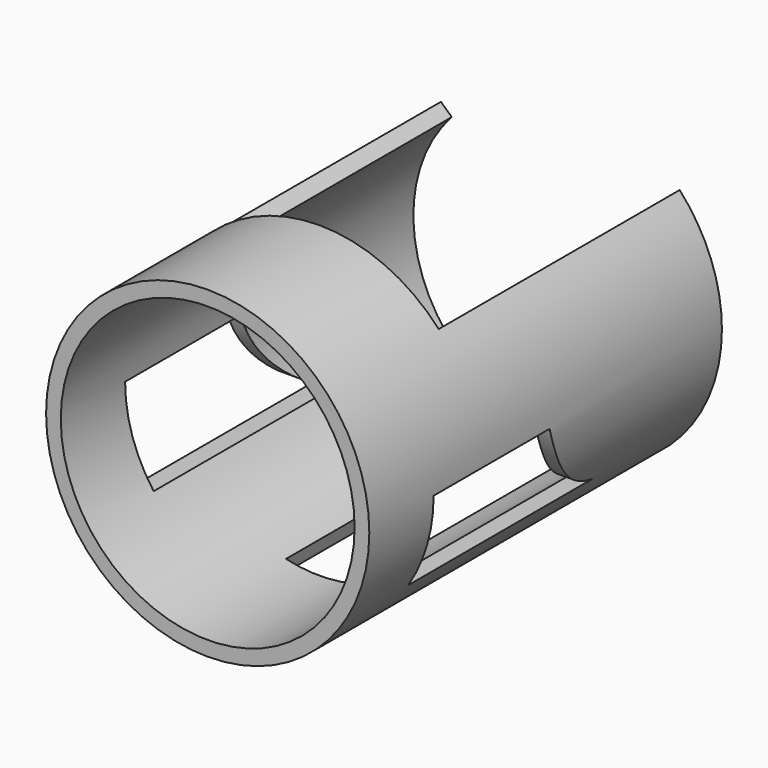
from build123d import *

# Parameters (mm, degrees)
F0_R     = 44
F0_R_2   = 40
F1_DEPTH = 120
F3_DEPTH = 82
F5_DEPTH = 62.5


with BuildPart() as f1:
    # F0 (on Front) → F1 (new body)
    with BuildSketch(Plane.XZ):
        Circle(F0_R)
        Circle(F0_R_2, mode=Mode.SUBTRACT)
    extrude(amount=F1_DEPTH)

    # F2 (on face) → F3 (cut)
    with BuildSketch(Plane(origin=(0, 0, 0), x_dir=(-1, 0, 0), z_dir=(0, 1, 0))):
        with BuildLine():
            Line((-9.075469, -38.887086), (-10, -42.848571))
            ThreePointArc((-10, -42.848571), (0, -44.049046), (10, -42.848571))
            Line((10, -42.848571), (9.075469, -38.887086))
            ThreePointArc((9.075469, -38.887086), (0, -39.932063), (-9.075469, -38.887086))
        make_face()
        with BuildLine():
            Line((-32.5, 29.66058), (-29.495273, 26.918367))
            ThreePointArc((-29.495273, 26.918367), (0, 39.932063), (29.495273, 26.918367))
            Line((29.495273, 26.918367), (32.5, 29.66058))
            ThreePointArc((32.5, 29.66058), (0, 44.075114), (-32.5, 29.66058))
        make_face()
    extrude(amount=-F3_DEPTH, mode=Mode.SUBTRACT)

    # F4 (on Right) → F5 (cut, symmetric)
    with BuildSketch(Plane.YZ):
        with BuildLine():
            Line((-58.659825, 0), (-98.111279, 0))
            Line((-98.111279, 0), (-98.111279, -23.701457))
            Line((-98.111279, -23.701457), (-35.417102, -23.701457))
            ThreePointArc((-35.417102, -23.701457), (-50.157585, -14.90948), (-58.659825, 0))
        make_face()
    extrude(amount=F5_DEPTH, both=True, mode=Mode.SUBTRACT)


solid = f1.part
